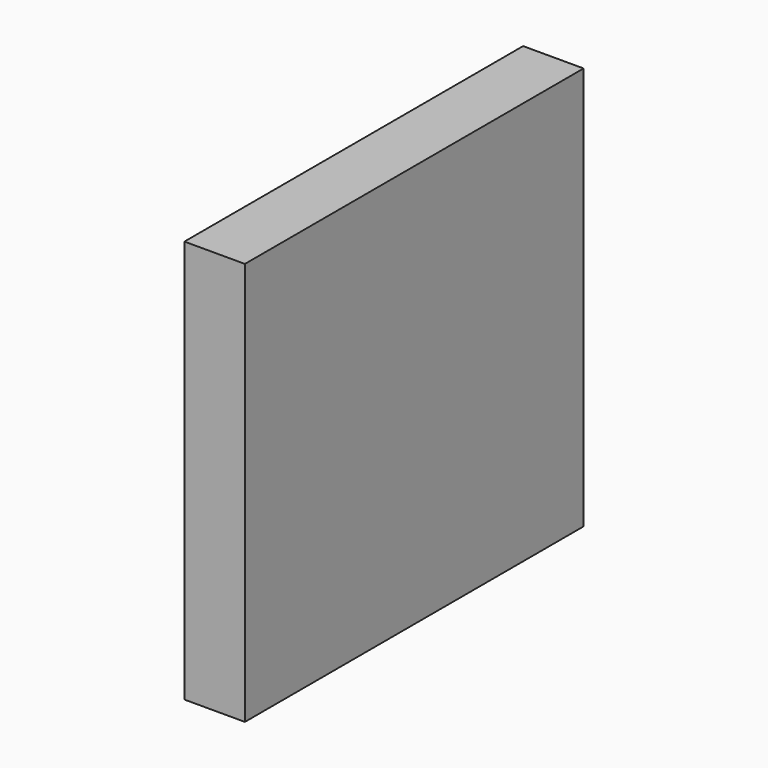
from build123d import *

# Parameters (mm, degrees)
SKETCH005_W  = 3
SKETCH005_H  = 21
PAD005_DEPTH = 20


with BuildPart() as obj1:
    # Sketch005 → Pad005 (new body)
    with BuildSketch(Plane.XY):
        with Locations((-118.349828, -27.05)):
            Rectangle(SKETCH005_W, SKETCH005_H)
    extrude(amount=PAD005_DEPTH)


with BuildPart() as obj2:
    # Part__Mirroring006: instance of obj1
    add(obj1.part.mirror(Plane(origin=(0, 0, 0), x_dir=(1, 0, 0), z_dir=(0, 1, 0))))


with BuildPart() as obj2_1:
    # Part__Mirroring006 placement: moved
    add(obj2.part.moved(Location((0, -0.5, 0))))


with BuildPart() as obj3:
    # Part__Mirroring008: instance of obj2
    add(obj2_1.part.mirror(Plane(origin=(0, 0, 0), x_dir=(0, -1, 0), z_dir=(1, 0, 0))))


solid = obj3.part
